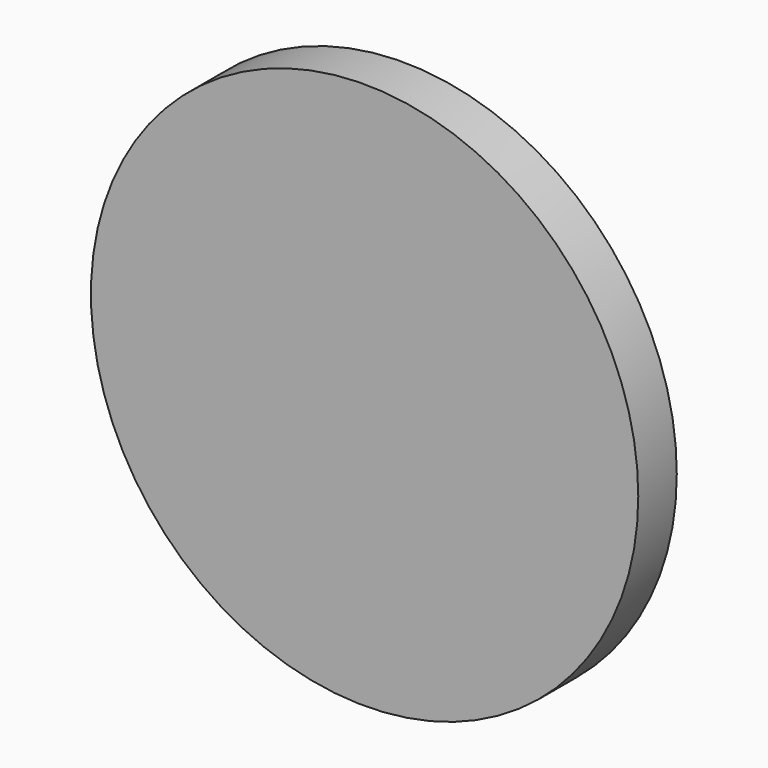
from build123d import *

# Parameters (mm, degrees)
SKETCH060_W  = 4.4
SKETCH060_H  = 4.4
PAD060_DEPTH = 0.5
SKETCH061_R  = 9.95
PAD061_DEPTH = 1.75
SKETCH059_W  = 5
SKETCH059_H  = 5
PAD059_DEPTH = 5


with BuildPart() as body059:
    # Sketch060 → Pad060 (new body)
    with BuildSketch(Plane.XZ):
        with Locations((2.2, -2.2)):
            Rectangle(SKETCH060_W, SKETCH060_H)
    extrude(amount=PAD060_DEPTH)


with BuildPart() as body059_1:
    # Body059 placement: moved
    add(body059.part.moved(Location((-2.2, 0, 2.2))))


with BuildPart() as body060:
    # Sketch061 → Pad061 (new body)
    with BuildSketch(Plane.XZ):
        Circle(SKETCH061_R)
    extrude(amount=PAD061_DEPTH)


with BuildPart() as body060_1:
    # Body060 placement: moved
    add(body060.part.moved(Location((0, -0.5, 0))))


with BuildPart() as body058:
    # Sketch059 → Pad059 (new body)
    with BuildSketch(Plane.XZ):
        with Locations((2.5, -2.5)):
            Rectangle(SKETCH059_W, SKETCH059_H)
    extrude(amount=PAD059_DEPTH)


with BuildPart() as body058_1:
    # Body058 placement: moved
    add(body058.part.moved(Location((-2, 0, 2))))


with BuildPart() as ledsimple:
    # Sphere → Sphere (revolve)
    with BuildSketch(Plane.XZ):
        with BuildLine():
            ThreePointArc((0, -1.6), (1.6, 0), (0, 1.6))
            Line((0, 1.6), (0, -1.6))
        make_face()
    revolve(axis=Axis((0, 0, 0), (0, 0, 1)))

    # Cut063: cut Body058
    add(body058_1.part, mode=Mode.SUBTRACT)

    # Fusion004: union Body059, Body060
    add(body059_1.part)
    add(body060_1.part)


with BuildPart() as ledsimple_1:
    # Fusion004 placement: moved
    add(ledsimple.part.moved(Location((0, 17, 0))))


solid = ledsimple_1.part
